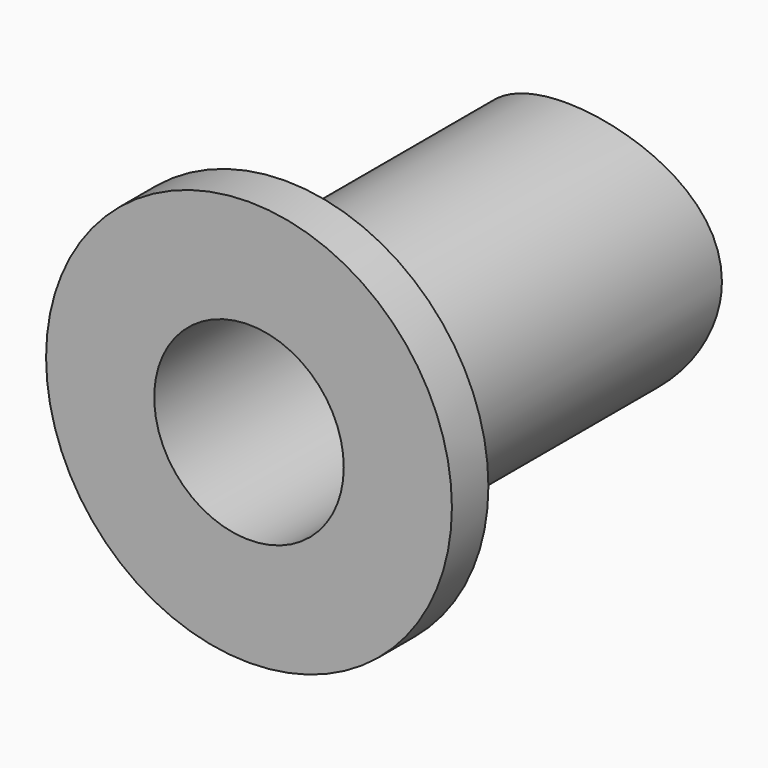
from build123d import *

# Parameters (mm, degrees)
F0_R          = 21.59
F1_DEPTH      = 76.2
F2_R          = 33.897036
F2_R_2        = 21.59
F3_DEPTH      = 7.62
F4_R          = 15.833015
F5_DEPTH      = 83.821
F6_R          = 44.45
F7_DEPTH      = 25.4
F7_DEPTH_BACK = 38.4834


with BuildPart() as f1:
    # F0 (on Front) → F1 (new body)
    with BuildSketch(Plane.XZ):
        Circle(F0_R)
    extrude(amount=F1_DEPTH)

    # F2 (on face) → F3 (join)
    with BuildSketch(Plane.XZ.offset(76.2)):
        Circle(F2_R)
        Circle(F2_R_2, mode=Mode.SUBTRACT)
        Circle(F2_R_2)
    extrude(amount=F3_DEPTH)

    # F4 (on face) → F5 (cut, through all)
    with BuildSketch(Plane.XZ.offset(83.82)):
        Circle(F4_R)
    extrude(amount=-F5_DEPTH, mode=Mode.SUBTRACT)

    # F6 (on Top) → F7 (cut, two sides)
    with BuildSketch(Plane.XY) as f7_sk:
        with Locations((0, 26.801758)):
            Circle(F6_R)
    extrude(amount=F7_DEPTH, mode=Mode.SUBTRACT)
    extrude(f7_sk.sketch, amount=-F7_DEPTH_BACK, mode=Mode.SUBTRACT)


solid = f1.part
